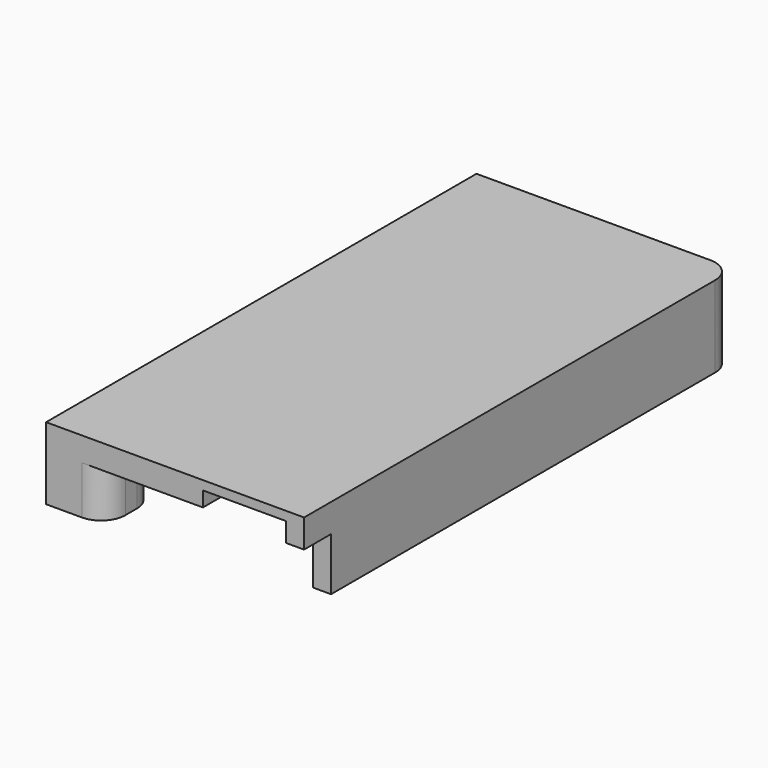
from build123d import *

# Parameters (mm, degrees)
PAD016_DEPTH    = 7.5
POCKET029_DEPTH = 5.5
SKETCH103_W     = 12
SKETCH103_H     = 4.325
POCKET069_DEPTH = 6.75
SKETCH047_W     = 50
SKETCH047_H     = 50
POCKET028_DEPTH = 1.5
SKETCH059_W     = 10
SKETCH059_H     = 8
SKETCH059_W_2   = 5.5
SKETCH059_H_2   = 5.5
SKETCH059_W_3   = 6.9
SKETCH059_H_3   = 9
SKETCH059_W_4   = 2.5
SKETCH059_H_4   = 2
POCKET033_DEPTH = 6.75
FILLET010_R     = 1
SKETCH086_W     = 2.5
SKETCH086_H     = 3.54
SKETCH086_W_2   = 2.8
POCKET057_DEPTH = 6.75
SKETCH082_W     = 1.5
SKETCH082_H     = 4.6
POCKET053_DEPTH = 5.15
SKETCH090_W     = 43.475
SKETCH090_H     = 0.75
POCKET059_DEPTH = 28.576
SKETCH092_W     = 37.75
SKETCH092_H     = 0.75
POCKET061_DEPTH = 9.526
SKETCH058_R     = 0.95
POCKET043_DEPTH = 3.25


with BuildPart() as part:
    # Sketch048 → Pad016 (new body)
    with BuildSketch(Plane.XY):
        with BuildLine():
            Line((-28.575, 91.1), (-28.575, 46.425))
            Line((-28.575, 46.425), (-7.15, 46.425))
            Line((-7.15, 46.425), (-7.15, 89.1))
            ThreePointArc((-7.15, 89.1), (-7.735786, 90.514214), (-9.15, 91.1))
            Line((-9.15, 91.1), (-28.575, 91.1))
        make_face()
    extrude(amount=PAD016_DEPTH)

    # Sketch052 → Pocket029 (cut)
    with BuildSketch(Plane.XY):
        with BuildLine():
            Line((-28.1, 51.625), (-28.1, 85.875))
            Line((-28.1, 85.875), (-10, 85.875))
            Line((-10, 85.875), (-10, 46.425))
            Line((-25.6, 46.425), (-10, 46.425))
            ThreePointArc((-25.6, 46.425), (-24.185786, 47.010786), (-23.6, 48.425))
            Line((-23.6, 49.625), (-23.6, 48.425))
            ThreePointArc((-23.6, 49.625), (-24.185786, 51.039214), (-25.6, 51.625))
            Line((-28.1, 51.625), (-25.6, 51.625))
        make_face()
    extrude(amount=POCKET029_DEPTH, mode=Mode.SUBTRACT)

    # Sketch103 → Pocket069 (cut)
    with BuildSketch(Plane.XY):
        with Locations((-19.05, 88.0375)):
            Rectangle(SKETCH103_W, SKETCH103_H)
    extrude(amount=POCKET069_DEPTH, mode=Mode.SUBTRACT)

    # Sketch047 → Pocket028 (cut)
    with BuildSketch(Plane.XY):
        with Locations((-34.9, 60.375)):
            Rectangle(SKETCH047_W, SKETCH047_H)
    extrude(amount=POCKET028_DEPTH, mode=Mode.SUBTRACT)

    # Sketch059 → Pocket033 (cut)
    with BuildSketch(Plane.XY):
        with Locations((-19.05, 82.365)):
            Rectangle(SKETCH059_W, SKETCH059_H)
        with Locations((-15.78, 72.015)):
            Rectangle(SKETCH059_W_2, SKETCH059_H_2)
        with Locations((-12.1, 47.225)):
            Rectangle(SKETCH059_W_3, SKETCH059_H_3)
        with Locations((-11.25, 78.825)):
            Rectangle(SKETCH059_W_4, SKETCH059_H_4)
        with Locations((-11.25, 76.285)):
            Rectangle(SKETCH059_W_4, SKETCH059_H_4)
        with Locations((-11.25, 73.745)):
            Rectangle(SKETCH059_W_4, SKETCH059_H_4)
        with Locations((-11.25, 71.205)):
            Rectangle(SKETCH059_W_4, SKETCH059_H_4)
        with Locations((-11.25, 68.665)):
            Rectangle(SKETCH059_W_4, SKETCH059_H_4)
        with Locations((-11.25, 66.125)):
            Rectangle(SKETCH059_W_4, SKETCH059_H_4)
        with Locations((-11.25, 63.585)):
            Rectangle(SKETCH059_W_4, SKETCH059_H_4)
        with Locations((-11.25, 81.365)):
            Rectangle(SKETCH059_W_4, SKETCH059_H_4)
        with Locations((-11.25, 61.045)):
            Rectangle(SKETCH059_W_4, SKETCH059_H_4)
        with Locations((-11.25, 58.505)):
            Rectangle(SKETCH059_W_4, SKETCH059_H_4)
        with Locations((-11.25, 55.965)):
            Rectangle(SKETCH059_W_4, SKETCH059_H_4)
        with Locations((-11.25, 53.425)):
            Rectangle(SKETCH059_W_4, SKETCH059_H_4)
        with Locations((-26.85, 78.825)):
            Rectangle(SKETCH059_W_4, SKETCH059_H_4)
        with Locations((-26.85, 76.285)):
            Rectangle(SKETCH059_W_4, SKETCH059_H_4)
        with Locations((-26.85, 73.745)):
            Rectangle(SKETCH059_W_4, SKETCH059_H_4)
        with Locations((-26.85, 71.205)):
            Rectangle(SKETCH059_W_4, SKETCH059_H_4)
        with Locations((-26.85, 68.665)):
            Rectangle(SKETCH059_W_4, SKETCH059_H_4)
        with Locations((-26.85, 66.125)):
            Rectangle(SKETCH059_W_4, SKETCH059_H_4)
        with Locations((-26.85, 63.585)):
            Rectangle(SKETCH059_W_4, SKETCH059_H_4)
        with Locations((-26.85, 61.045)):
            Rectangle(SKETCH059_W_4, SKETCH059_H_4)
        with Locations((-26.85, 58.505)):
            Rectangle(SKETCH059_W_4, SKETCH059_H_4)
        with Locations((-26.85, 55.965)):
            Rectangle(SKETCH059_W_4, SKETCH059_H_4)
        with Locations((-26.85, 53.425)):
            Rectangle(SKETCH059_W_4, SKETCH059_H_4)
        with Locations((-26.85, 81.365)):
            Rectangle(SKETCH059_W_4, SKETCH059_H_4)
    extrude(amount=POCKET033_DEPTH, mode=Mode.SUBTRACT)

    # Fillet010
    fillet010_edges = [part.edges().sort_by_distance(p)[0] for p in [
        (-28.1, 53.425, 6.75),
        (-28.1, 55.965, 6.75),
        (-28.1, 58.505, 6.75),
        (-28.1, 61.045, 6.75),
        (-28.1, 63.585, 6.75),
        (-28.1, 66.125, 6.75),
        (-28.1, 68.665, 6.75),
        (-28.1, 71.205, 6.75),
        (-28.1, 73.745, 6.75),
        (-28.1, 76.285, 6.75),
        (-28.1, 78.825, 6.75),
        (-28.1, 81.365, 6.75),
    ]]
    fillet(fillet010_edges, radius=FILLET010_R)

    # Sketch086 → Pocket057 (cut)
    with BuildSketch(Plane.XY):
        with Locations((-11.25, 84.105)):
            Rectangle(SKETCH086_W, SKETCH086_H)
        with Locations((-26.7, 84.105)):
            Rectangle(SKETCH086_W_2, SKETCH086_H)
    extrude(amount=POCKET057_DEPTH, mode=Mode.SUBTRACT)

    # Sketch082 → Pocket053 (cut)
    with BuildSketch(Plane.XY):
        with Locations((-7.9, 46.925)):
            Rectangle(SKETCH082_W, SKETCH082_H)
    extrude(amount=POCKET053_DEPTH, mode=Mode.SUBTRACT)

    # Sketch090 → Pocket059 (cut, through all)
    with BuildSketch(Plane.YZ):
        with Locations((69.3625, 0.375)):
            Rectangle(SKETCH090_W, SKETCH090_H)
    extrude(amount=-POCKET059_DEPTH, mode=Mode.SUBTRACT)

    # Sketch092 → Pocket061 (cut, through all)
    with BuildSketch(Plane.YZ.offset(-19.05)):
        with Locations((66.5, 1.125)):
            Rectangle(SKETCH092_W, SKETCH092_H)
    extrude(amount=-POCKET061_DEPTH, mode=Mode.SUBTRACT)

    # Sketch058 (on Face9 of Pocket061) → Pocket043 (cut)
    with BuildSketch(Plane.XY.offset(0.75)):
        with Locations((-11.43, 88.225)):
            Circle(SKETCH058_R)
        with Locations((-26.67, 88.225)):
            Circle(SKETCH058_R)
    extrude(amount=POCKET043_DEPTH, mode=Mode.SUBTRACT)


solid = part.part
